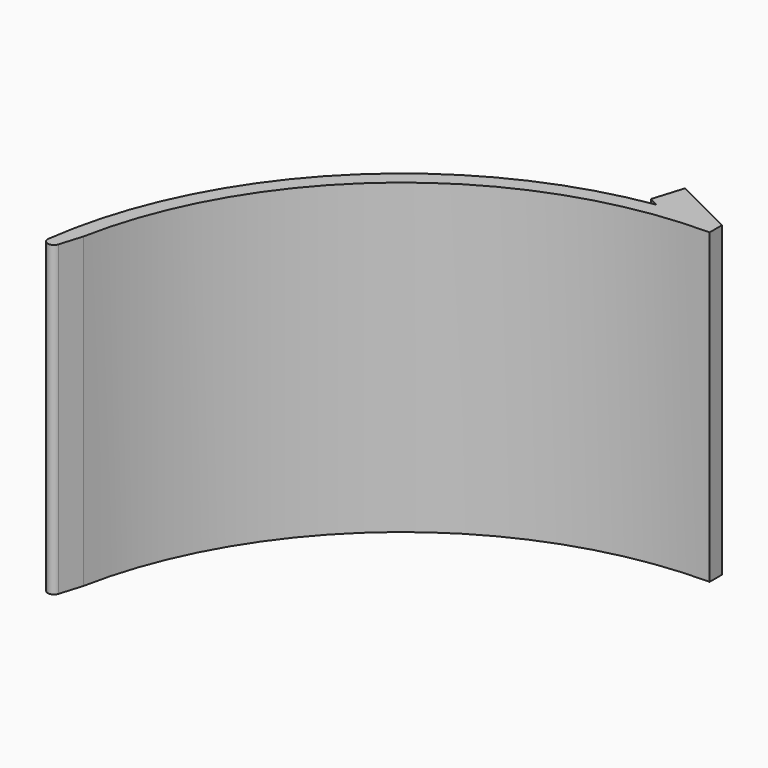
from build123d import *

# Parameters (mm, degrees)
F1_DEPTH  = 20
F3_DEPTH  = 5
F5_DEPTH  = 5
F8_DEPTH  = 3
F9_DEPTH  = 1
F6_R      = 1.5
F10_DEPTH = 1
F11_R     = 0.4


with BuildPart() as f1:
    # F0 (on Top) → F1 (new body)
    with BuildSketch(Plane.XY):
        with BuildLine():
            ThreePointArc((-24.5367908878, 4.7901871498), (-15.894107733, 19.2970811102), (0, 25))
            Line((0, 25), (0, 26))
            Line((0, 26), (-4, 27.9999999299))
            Line((-4, 27.9999999299), (-5.9999998598, 27.9999999299))
            Line((-5.9999998598, 27.9999999299), (-7.9999998598, 27.9999999299))
            Line((-7.9999998598, 27.9999999299), (-15, 27.9999999299))
            Line((-15, 27.9999999299), (-15, 26))
            Line((-15, 26), (-4.6190696853, 26))
            Line((-4.6190696853, 26), (-4, 25.6904651573))
            ThreePointArc((-4, 25.6904651573), (-19.7484176581, 16.9115345253), (-26, 0))
            Line((-26, 0), (-24.5367908878, 4.7901871498))
        make_face()
    extrude(amount=F1_DEPTH)

    # F2 (on face) → F3 (cut)
    with BuildSketch(Plane.XY.offset(20)):
        Polygon((-15, 26), (-4.6190696853, 26), (-4, 27.9999999299), (-15, 27.9999999299), align=None)
    extrude(amount=-F3_DEPTH, mode=Mode.SUBTRACT)

    # F4 (on face) → F5 (cut)
    with BuildSketch(Plane(origin=(0, 0, 0), x_dir=(1, 0, 0), z_dir=(0, 0, -1))):
        Polygon((-4, -27.9999999299), (-4.6190696853, -26), (-15, -26), (-15, -27.9999999299), align=None)
    extrude(amount=-F5_DEPTH, mode=Mode.SUBTRACT)

    # F7 (on face) → F8 (join)
    with BuildSketch(Plane(origin=(0, 27.9999999299, 0), x_dir=(-1, 0, 0), z_dir=(0, 1, 0))):
        Polygon((11.775, 12), (11.775, 10), (11.775, 8), (13.775, 8), (13.775, 12), align=None)
        Polygon((7.225, 10), (7.225, 12), (5.225, 12), (5.225, 8), (7.225, 8), align=None)
    extrude(amount=F8_DEPTH)

    # F9 (cut): a face of the model
    f9_faces = [f1.faces().sort_by_distance(p)[0] for p in [
        (-9.8095348427, 26, 10),
    ]]
    extrude(f9_faces, amount=-F9_DEPTH, mode=Mode.SUBTRACT)

    # F6 (on face) → F10 (cut)
    with BuildSketch(Plane(origin=(0, 27.9999999299, 0), x_dir=(-1, 0, 0), z_dir=(0, 1, 0))):
        with Locations((9.5, 10)):
            Circle(F6_R)
    extrude(amount=-F10_DEPTH, mode=Mode.SUBTRACT)

    # F11
    f11_edges = [f1.edges().sort_by_distance(p)[0] for p in [
        (-26, 0, 10),
    ]]
    fillet(f11_edges, radius=F11_R)


solid = f1.part
